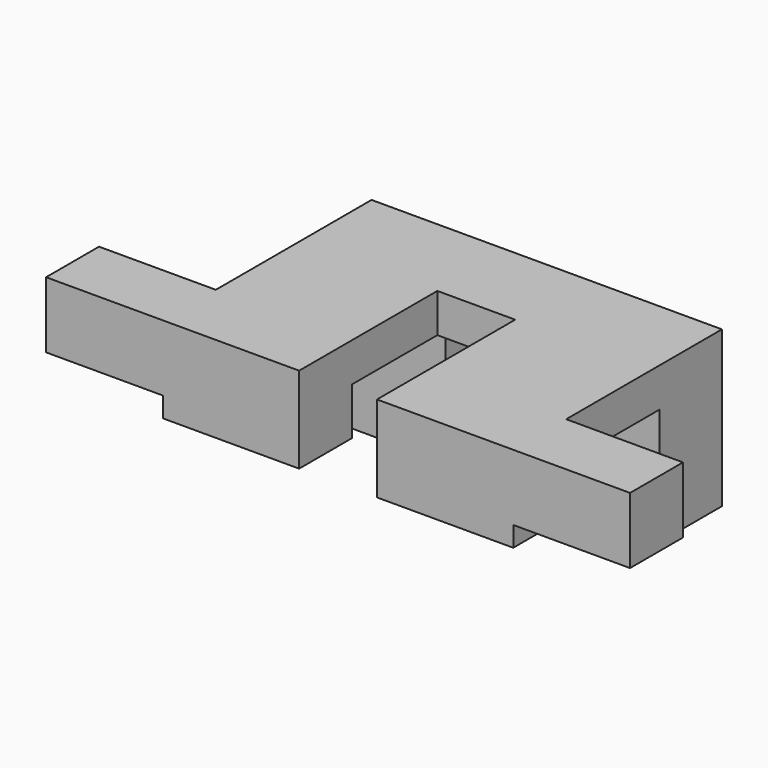
from build123d import *

# Parameters (mm, degrees)
F5_W      = 150
F5_H      = 17
F6_DEPTH  = 17
F7_W      = 90
F7_H      = 17
F8_DEPTH  = 5.16
F0_W      = 90
F0_H      = 10
F9_DEPTH  = 50
F1_W      = 35
F1_H      = 20
F10_DEPTH = 30
F4_W      = 20
F4_H      = 44.370009
F11_DEPTH = 50


with BuildPart() as f6:
    # F5 (on Top) → F6 (new body)
    with BuildSketch(Plane.XY):
        Rectangle(F5_W, F5_H)
    extrude(amount=F6_DEPTH)

    # F7 (on face) → F8 (join)
    with BuildSketch(Plane(origin=(0, 0, 0), x_dir=(1, 0, 0), z_dir=(0, 0, -1))):
        Rectangle(F7_W, F7_H)
    extrude(amount=F8_DEPTH)

    # F0 (on face) → F9 (join)
    with BuildSketch(Plane(origin=(0, 8.5, 0), x_dir=(-1, 0, 0), z_dir=(0, 1, 0))):
        with Locations((0, 12)):
            Rectangle(F0_W, F0_H)
    extrude(amount=F9_DEPTH)

    # F1 (on face) → F10 (join)
    with BuildSketch(Plane(origin=(0, 0, 7), x_dir=(1, 0, 0), z_dir=(0, 0, -1))):
        with Locations((-27.5, -48.5)):
            Rectangle(F1_W, F1_H)
    extrude(amount=F10_DEPTH)


with BuildPart() as f2_1:
    # F2: instance of F6
    add(f6.part.mirror(Plane.YZ))


with BuildPart() as f11_tool:
    # F4 (on face) → F11 (new body)
    with BuildSketch(Plane.XY.offset(17)):
        with Locations((0, 13.685004)):
            Rectangle(F4_W, F4_H)
    extrude(amount=-F11_DEPTH)


with BuildPart() as f6_1:
    add(f6.part)

    # F11: cut by f11_tool
    add(f11_tool.part, mode=Mode.SUBTRACT)


with BuildPart() as f2_1_1:
    add(f2_1.part)

    # F11: cut by f11_tool
    add(f11_tool.part, mode=Mode.SUBTRACT)


solid = Compound([f6_1.part, f2_1_1.part])
